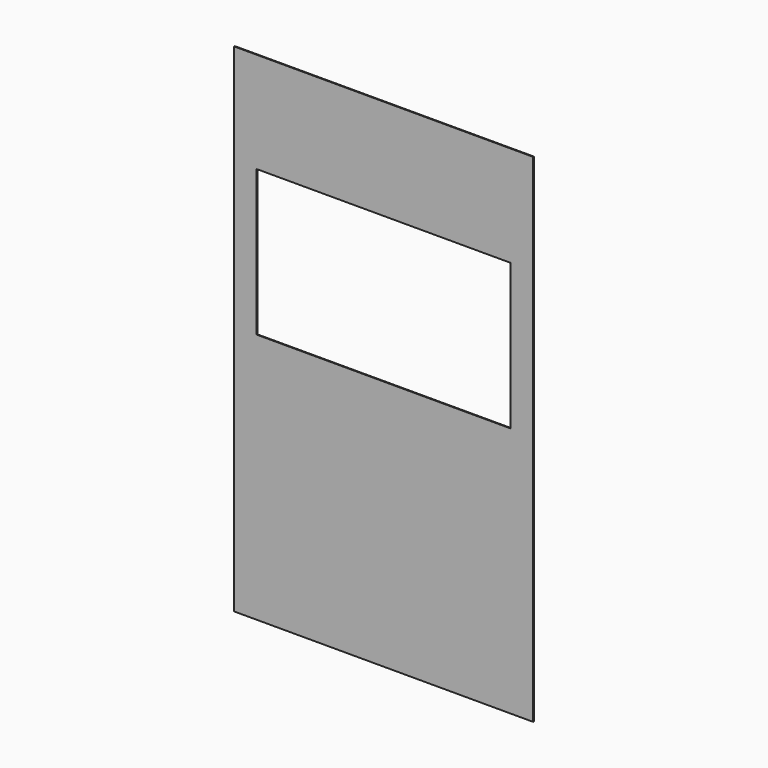
from build123d import *

# Parameters (mm, degrees)
F0_W     = 1563.144
F0_H     = 2600
F0_W_2   = 1328
F0_H_2   = 762
F1_DEPTH = 2


with BuildPart() as f1:
    # F0 (on Front) → F1 (new body, symmetric)
    with BuildSketch(Plane.XZ):
        Rectangle(F0_W, F0_H)
        with Locations((0, 393)):
            Rectangle(F0_W_2, F0_H_2, mode=Mode.SUBTRACT)
    extrude(amount=F1_DEPTH, both=True)


solid = f1.part
